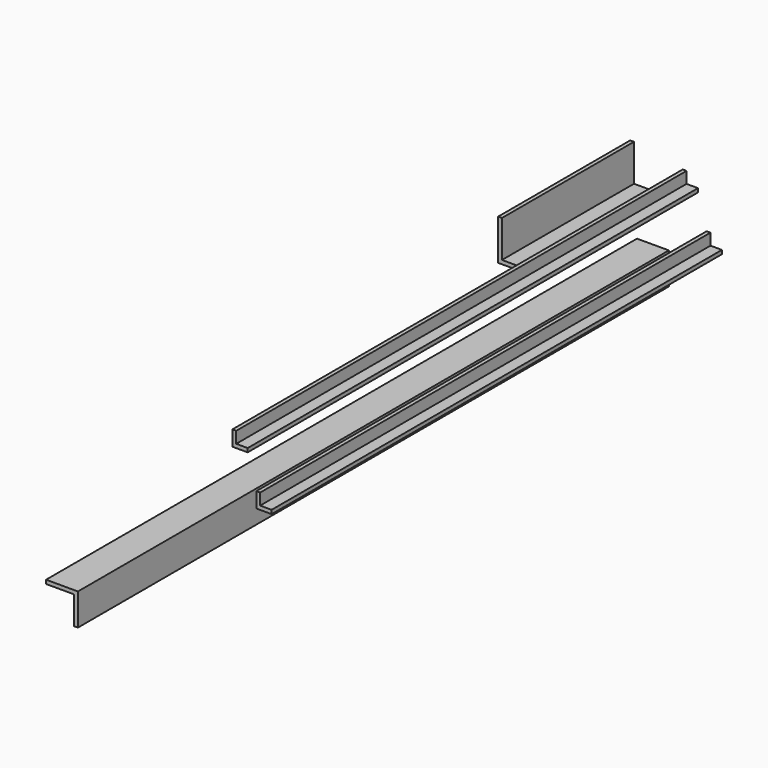
from build123d import *

# Parameters (mm, degrees)
F1_DEPTH = 129.6
F3_DEPTH = 442
F5_DEPTH = 442
F7_DEPTH = 580


with BuildPart() as f1:
    # F0 (on Front) → F1 (new body)
    with BuildSketch(Plane.XZ):
        Polygon((-57.035193, 66.189003), (-60.035149, 66.172745), (-60.035149, 34.172745), (-35.035149, 34.172745), (-35.035149, 37.172745), (-57.035193, 37.172745), align=None)
    extrude(amount=F1_DEPTH)


with BuildPart() as f3:
    # F2 (on Front) → F3 (new body)
    with BuildSketch(Plane.XZ):
        Polygon((0, 22.896226), (0, 10.896226), (12, 10.896226), (12, 13.896226), (3, 13.896226), (3, 22.896226), align=None)
    extrude(amount=F3_DEPTH)


with BuildPart() as f5:
    # F4 (on Front) → F5 (new body)
    with BuildSketch(Plane.XZ):
        Polygon((-15.782848, 59.490555), (-18.782848, 59.490555), (-18.782848, 47.490555), (-6.782848, 47.490555), (-6.782848, 50.490555), (-15.782848, 50.490555), align=None)
    extrude(amount=F5_DEPTH)


with BuildPart() as f7:
    # F6 (on Front) → F7 (new body)
    with BuildSketch(Plane.XZ):
        Polygon((-29.692831, 0), (-54.692831, 0), (-54.692831, -3), (-32.692831, -3), (-32.692831, -25), (-29.692831, -25), align=None)
    extrude(amount=F7_DEPTH)


solid = Compound([f1.part, f3.part, f5.part, f7.part])
